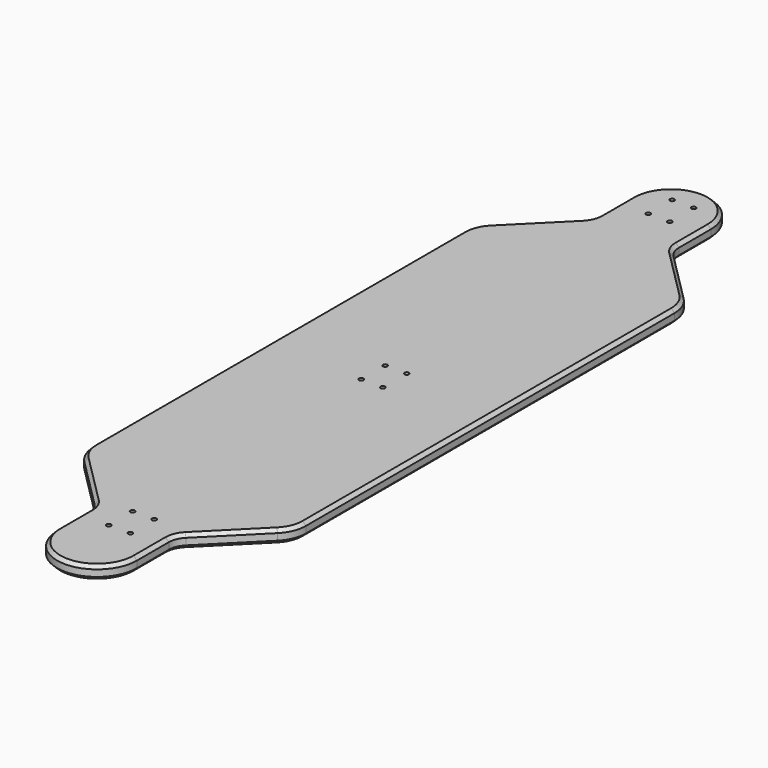
from build123d import *

# Parameters (mm, degrees)
F1_DEPTH = 12.7
F2_SIZE  = 3.175
F3_R     = 2.15265
F4_DEPTH = 12.7


with BuildPart() as f1:
    # F0 (on Top) → F1 (new body)
    with BuildSketch(Plane.XY):
        with BuildLine():
            Line((-38.1, 38.1), (-38.1, 0))
            ThreePointArc((-38.1, 0), (0, -38.1), (38.1, 0))
            Line((38.1, 0), (38.1, 38.1))
            ThreePointArc((38.1, 38.1), (39.550095, 45.390119), (43.679616, 51.570384))
            Line((43.679616, 51.570384), (92.30064, 100.191409))
            ThreePointArc((92.30064, 100.191409), (99.183175, 110.49185), (101.6, 122.642049))
            Line((101.6, 122.642049), (101.6, 563.157951))
            ThreePointArc((101.6, 563.157951), (99.183175, 575.30815), (92.30064, 585.608591))
            Line((92.30064, 585.608591), (43.679616, 634.229616))
            ThreePointArc((43.679616, 634.229616), (39.550095, 640.409881), (38.1, 647.7))
            Line((38.1, 647.7), (38.1, 685.8))
            ThreePointArc((38.1, 685.8), (0, 723.9), (-38.1, 685.8))
            Line((-38.1, 685.8), (-38.1, 647.7))
            ThreePointArc((-38.1, 647.7), (-39.550095, 640.409881), (-43.679616, 634.229616))
            Line((-43.679616, 634.229616), (-92.30064, 585.608591))
            ThreePointArc((-92.30064, 585.608591), (-99.183175, 575.30815), (-101.6, 563.157951))
            Line((-101.6, 563.157951), (-101.6, 122.642049))
            ThreePointArc((-101.6, 122.642049), (-99.183175, 110.49185), (-92.30064, 100.191409))
            Line((-92.30064, 100.191409), (-43.679616, 51.570384))
            ThreePointArc((-43.679616, 51.570384), (-39.550095, 45.390119), (-38.1, 38.1))
        make_face()
    extrude(amount=F1_DEPTH)

    # F2
    f2_edges = [f1.edges().sort_by_distance(p)[0] for p in [
        (-39.550095, 45.390119, 0),
        (-38.1, 19.05, 0),
        (0, -38.1, 0),
        (38.1, 19.05, 0),
        (39.550095, 45.390119, 0),
        (67.990128, 75.880896, 0),
        (99.183175, 110.49185, 0),
        (101.6, 342.9, 0),
        (99.183175, 575.30815, 0),
        (67.990128, 609.919104, 0),
        (39.550095, 640.409881, 0),
        (38.1, 666.75, 0),
        (0, 723.9, 0),
        (-38.1, 666.75, 0),
        (-39.550095, 640.409881, 0),
        (-67.990128, 609.919104, 0),
        (-99.183175, 575.30815, 0),
        (-101.6, 342.9, 0),
        (-99.183175, 110.49185, 0),
        (-67.990128, 75.880896, 0),
        (-39.550095, 45.390119, 12.7),
        (-38.1, 19.05, 12.7),
        (0, -38.1, 12.7),
        (38.1, 19.05, 12.7),
        (39.550095, 45.390119, 12.7),
        (67.990128, 75.880896, 12.7),
        (99.183175, 110.49185, 12.7),
        (101.6, 342.9, 12.7),
        (99.183175, 575.30815, 12.7),
        (67.990128, 609.919104, 12.7),
        (39.550095, 640.409881, 12.7),
        (38.1, 666.75, 12.7),
        (0, 723.9, 12.7),
        (-38.1, 666.75, 12.7),
        (-39.550095, 640.409881, 12.7),
        (-67.990128, 609.919104, 12.7),
        (-99.183175, 575.30815, 12.7),
        (-101.6, 342.9, 12.7),
        (-99.183175, 110.49185, 12.7),
        (-67.990128, 75.880896, 12.7),
    ]]
    chamfer(f2_edges, length=F2_SIZE)

    # F3 (on face) → F4 (cut, through all)
    with BuildSketch(Plane(origin=(0, 0, 0), x_dir=(1, 0, 0), z_dir=(0, 0, -1))):
        with Locations((10.31875, -700.0875)):
            Circle(F3_R)
        with Locations((10.31875, -671.5125)):
            Circle(F3_R)
        with Locations((-10.31875, -671.5125)):
            Circle(F3_R)
        with Locations((-10.31875, -700.0875)):
            Circle(F3_R)
        with Locations((10.31875, -55.402948)):
            Circle(F3_R)
        with Locations((10.31875, -26.827948)):
            Circle(F3_R)
        with Locations((-10.31875, -55.402948)):
            Circle(F3_R)
        with Locations((-10.31875, -26.827948)):
            Circle(F3_R)
        with Locations((10.31875, -357.1875)):
            Circle(F3_R)
        with Locations((10.31875, -328.6125)):
            Circle(F3_R)
        with Locations((-10.31875, -328.6125)):
            Circle(F3_R)
        with Locations((-10.31875, -357.1875)):
            Circle(F3_R)
    extrude(amount=-F4_DEPTH, mode=Mode.SUBTRACT)


solid = f1.part
